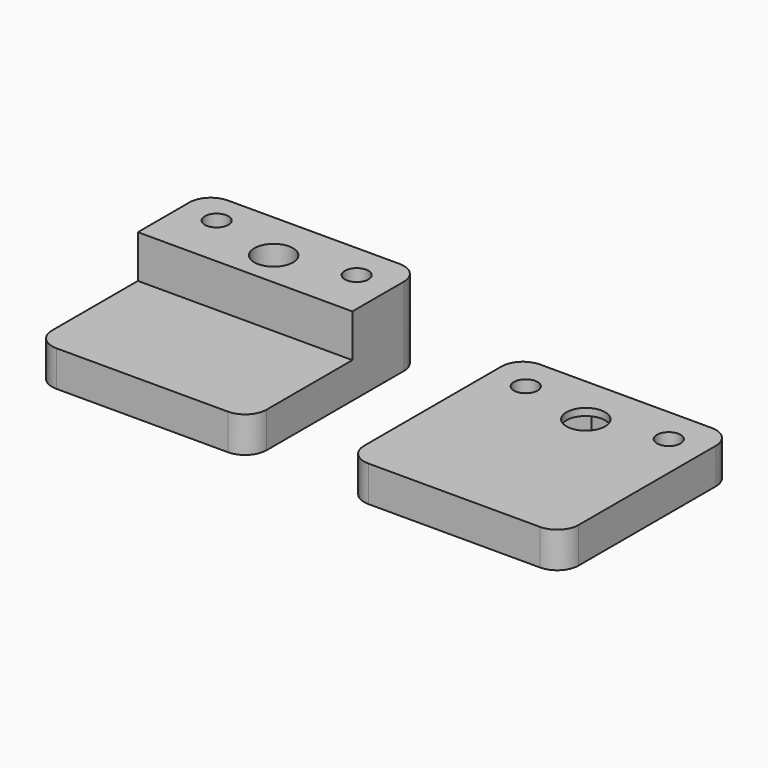
from build123d import *

# Parameters (mm, degrees)
F0_W     = 30
F0_H     = 30
F1_DEPTH = 5
F2_W     = 30
F2_H     = 12
F3_DEPTH = 6
F4_R     = 1.65
F4_R_2   = 2.7
F5_DEPTH = 11.001
F7_DEPTH = 2.5
F8_DEPTH = 1.5
F9_R     = 3
F9_2_R   = 3


with BuildPart() as f1:
    # F0 (on Top) → F1 (new body)
    with BuildSketch(Plane.XY):
        with Locations((-20.2498977029, 0.1978335731)):
            Rectangle(F0_W, F0_H)
    extrude(amount=F1_DEPTH)

    # F2 (on face) → F3 (join)
    with BuildSketch(Plane.XY.offset(5)):
        with Locations((-20.2498977029, 9.1978335731)):
            Rectangle(F2_W, F2_H)
    extrude(amount=F3_DEPTH)


with BuildPart() as f1b:
    # F0 (on Top) → F1, piece 2 (new body)
    with BuildSketch(Plane.XY):
        with Locations((23.4008972489, 0.1978335731)):
            Rectangle(F0_W, F0_H)
    extrude(amount=F1_DEPTH)


with BuildPart() as f5_tool:
    # F4 (on Top) → F5 (new body, through all)
    with BuildSketch(Plane.XY):
        with Locations((33.4008972489, 10.1978335731)):
            Circle(F4_R)
        with Locations((23.4008972489, 8.1978335731)):
            Circle(F4_R_2)
        with Locations((13.4008972489, 10.1978335731)):
            Circle(F4_R)
        with Locations((-10.2498977029, 10.1978335731)):
            Circle(F4_R)
        with Locations((-20.2498977029, 8.1978335731)):
            Circle(F4_R_2)
        with Locations((-30.2498977029, 10.7247970566)):
            Circle(F4_R)
    extrude(amount=F5_DEPTH)


with BuildPart() as f1_1:
    add(f1.part)

    # F5: cut by f5_tool
    add(f5_tool.part, mode=Mode.SUBTRACT)

    # F9#2
    f9_2_edges = [f1_1.edges().sort_by_distance(p)[0] for p in [
        (-5.249898, -14.802166, 2.5),
        (-35.249898, -14.802166, 2.5),
        (-35.249898, 15.197834, 5.5),
        (-5.249898, 15.197834, 5.5),
    ]]
    fillet(f9_2_edges, radius=F9_2_R)


with BuildPart() as f1b_1:
    add(f1b.part)

    # F5: cut by f5_tool
    add(f5_tool.part, mode=Mode.SUBTRACT)

    # F6 (on Top) → F7 (cut)
    with BuildSketch(Plane.XY):
        Polygon((14.9912161835, 7.4493396183), (16.5763223032, 10.2008431932), (14.9860033686, 12.949337148), (11.8105783143, 12.9463275279), (10.2254721946, 10.194823953), (11.8157911292, 7.4463299982), align=None)
        Polygon((25.78052926, 4.2392119916), (28.018980108, 8.2793445556), (25.6393480969, 12.2379661371), (21.0212652379, 12.1564551545), (18.7828143899, 8.1163225906), (21.162446401, 4.1577010091), align=None)
        Polygon((35.0368942565, 7.4762812358), (36.5758292145, 10.2538723736), (34.9398322069, 12.9754247108), (31.7649002413, 12.9193859103), (30.2259652833, 10.1417947726), (31.8619622909, 7.4202424353), align=None)
    extrude(amount=F7_DEPTH, mode=Mode.SUBTRACT)

    # F8 (cut): a face of the model
    f8_faces = [f1b_1.faces().sort_by_distance(p)[0] for p in [
        (23.4693221441, 4.3211555386, 2.5),
    ]]
    extrude(f8_faces, amount=-F8_DEPTH, mode=Mode.SUBTRACT)

    # F9
    f9_edges = [f1b_1.edges().sort_by_distance(p)[0] for p in [
        (38.400897, -14.802166, 2.5),
        (38.400897, 15.197834, 2.5),
        (8.400897, -14.802166, 2.5),
        (8.400897, 15.197834, 2.5),
    ]]
    fillet(f9_edges, radius=F9_R)


solid = Compound([f1_1.part, f1b_1.part])
